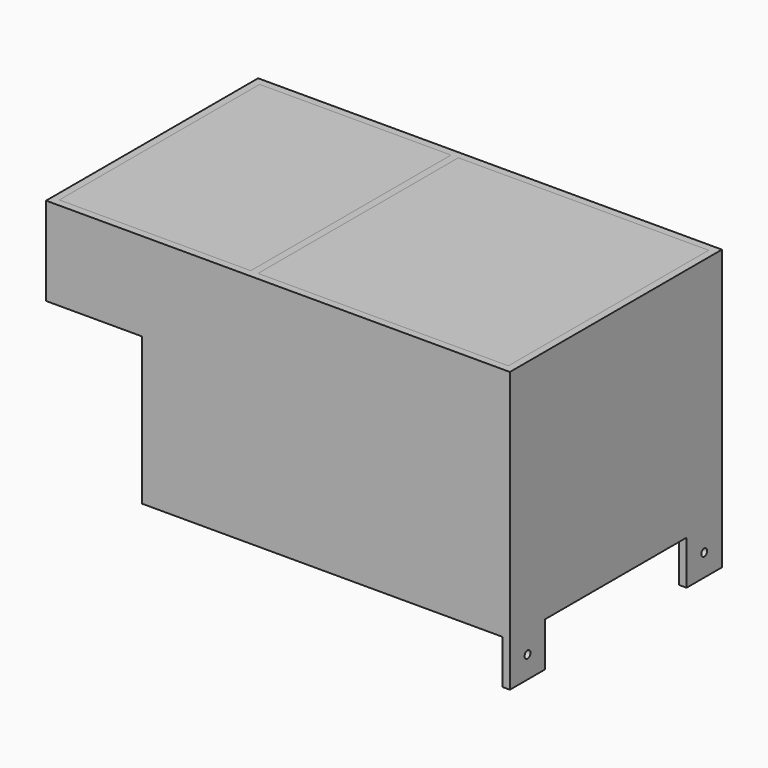
from build123d import *

# Parameters (mm, degrees)
F0_W      = 5
F0_H      = 5
F0_H_2    = 170
F1_DEPTH  = 160
F0_W_2    = 65
F0_W_3    = 170
F2_DEPTH  = 5
F3_W      = 5
F3_H      = 50
F3_W_2    = 170
F4_DEPTH  = 65
F5_DEPTH  = 60
F6_DEPTH  = 6
F7_DEPTH  = 65
F8_W      = 20
F8_H      = 40
F8_R      = 2
F9_DEPTH  = 5
F10_W     = 30
F10_H     = 30
F10_R     = 2.5
F11_DEPTH = 5
F12_W     = 170
F12_H     = 10
F13_DEPTH = 170
F14_W     = 150
F14_H     = 150
F15_DEPTH = 11
F16_W     = 130
F16_H     = 10
F17_DEPTH = 170
F18_W     = 110
F18_H     = 150
F19_DEPTH = 11
F20_W     = 170
F20_H     = 5
F21_DEPTH = 170
F22_W     = 130
F22_H     = 5
F23_DEPTH = 170


with BuildPart() as f1:
    # F0 (on Top) → F1 (new body)
    with BuildSketch(Plane.XY):
        Polygon((-50, -90), (125, -90), (125, -85), (120, -85), (-50, -85), align=None)
        with Locations((-52.5, -87.5)):
            Rectangle(F0_W, F0_H)
        with Locations((122.5, 0)):
            Rectangle(F0_W, F0_H_2)
        Polygon((-125, -90), (-55, -90), (-55, -85), (-120, -85), (-125, -85), align=None)
        Polygon((120, 85), (125, 85), (125, 90), (-50, 90), (-50, 85), align=None)
        with Locations((-52.5, 87.5)):
            Rectangle(F0_W, F0_H)
        with Locations((-122.5, 0)):
            Rectangle(F0_W, F0_H_2)
        Polygon((-120, 85), (-55, 85), (-55, 90), (-125, 90), (-125, 85), align=None)
        with Locations((-52.5, 0)):
            Rectangle(F0_W, F0_H_2)
    extrude(amount=F1_DEPTH)

    # F0 (on Top) → F2 (join)
    with BuildSketch(Plane.XY):
        with Locations((-87.5, 0)):
            Rectangle(F0_W_2, F0_H_2)
        with Locations((35, 0)):
            Rectangle(F0_W_3, F0_H_2)
    extrude(amount=F2_DEPTH)

    # F3 (on face) → F4 (join)
    with BuildSketch(Plane(origin=(-125, 0, 0), x_dir=(0, -1, 0), z_dir=(-1, 0, 0))):
        Polygon((90, 160), (-90, 160), (-90, 155), (-85, 155), (85, 155), (90, 155), align=None)
        with Locations((-87.5, 130)):
            Rectangle(F3_W, F3_H)
        with Locations((87.5, 130)):
            Rectangle(F3_W, F3_H)
        Polygon((-85, 105), (-90, 105), (-90, 100), (90, 100), (90, 105), (85, 105), align=None)
        with Locations((0, 130)):
            Rectangle(F3_W_2, F3_H)
    extrude(amount=F4_DEPTH)

    # F3 (on face) → F5 (cut)
    with BuildSketch(Plane(origin=(-125, 0, 0), x_dir=(0, -1, 0), z_dir=(-1, 0, 0))):
        with Locations((0, 130)):
            Rectangle(F3_W_2, F3_H)
    extrude(amount=F5_DEPTH, mode=Mode.SUBTRACT)

    # F3 (on face) → F6 (cut)
    with BuildSketch(Plane(origin=(-125, 0, 0), x_dir=(0, -1, 0), z_dir=(-1, 0, 0))):
        with Locations((0, 130)):
            Rectangle(F3_W_2, F3_H)
    extrude(amount=-F6_DEPTH, mode=Mode.SUBTRACT)

    # F7 (cut): a face of the model
    f7_faces = [f1.faces().sort_by_distance(p)[0] for p in [
        (-120, 0, 157.5),
    ]]
    extrude(f7_faces, amount=-F7_DEPTH, mode=Mode.SUBTRACT)

    # F10 (on face) → F11 (join)
    with BuildSketch(Plane.YZ.offset(125)):
        with Locations((-75, -15)):
            Rectangle(F10_W, F10_H)
        with Locations((-75, -15)):
            Circle(F10_R, mode=Mode.SUBTRACT)
        with Locations((75, -15)):
            Rectangle(F10_W, F10_H)
        with Locations((75, -15)):
            Circle(F10_R, mode=Mode.SUBTRACT)
    extrude(amount=-F11_DEPTH)

    # F12 (on face) → F13 (join)
    with BuildSketch(Plane.XZ.offset(-85)):
        with Locations((35, 149)):
            Rectangle(F12_W, F12_H)
    extrude(amount=F13_DEPTH)

    # F14 (on face) → F15 (cut)
    with BuildSketch(Plane.XY.offset(154)):
        with Locations((35, 0)):
            Rectangle(F14_W, F14_H)
    extrude(amount=-F15_DEPTH, mode=Mode.SUBTRACT)

    # F16 (on face) → F17 (join)
    with BuildSketch(Plane.XZ.offset(-85)):
        with Locations((-120, 149)):
            Rectangle(F16_W, F16_H)
    extrude(amount=F17_DEPTH)

    # F18 (on face) → F19 (cut)
    with BuildSketch(Plane.XY.offset(154)):
        with Locations((-120, 0)):
            Rectangle(F18_W, F18_H)
    extrude(amount=-F19_DEPTH, mode=Mode.SUBTRACT)


with BuildPart() as f9:
    # F8 (on face) → F9 (new body)
    with BuildSketch(Plane(origin=(-190, 0, 0), x_dir=(0, -1, 0), z_dir=(-1, 0, 0))):
        with Locations((-100, 120)):
            Rectangle(F8_W, F8_H)
        with Locations((-100, 120)):
            Circle(F8_R, mode=Mode.SUBTRACT)
    extrude(amount=-F9_DEPTH)


with BuildPart() as f21:
    # F20 (on face) → F21 (new body)
    with BuildSketch(Plane.XZ.offset(-85)):
        with Locations((35, 157.5)):
            Rectangle(F20_W, F20_H)
    extrude(amount=F21_DEPTH)


with BuildPart() as f23:
    # F22 (on face) → F23 (new body)
    with BuildSketch(Plane.XZ.offset(-85)):
        with Locations((-120, 157.5)):
            Rectangle(F22_W, F22_H)
    extrude(amount=F23_DEPTH)


solid = Compound([f1.part, f9.part, f21.part, f23.part])
